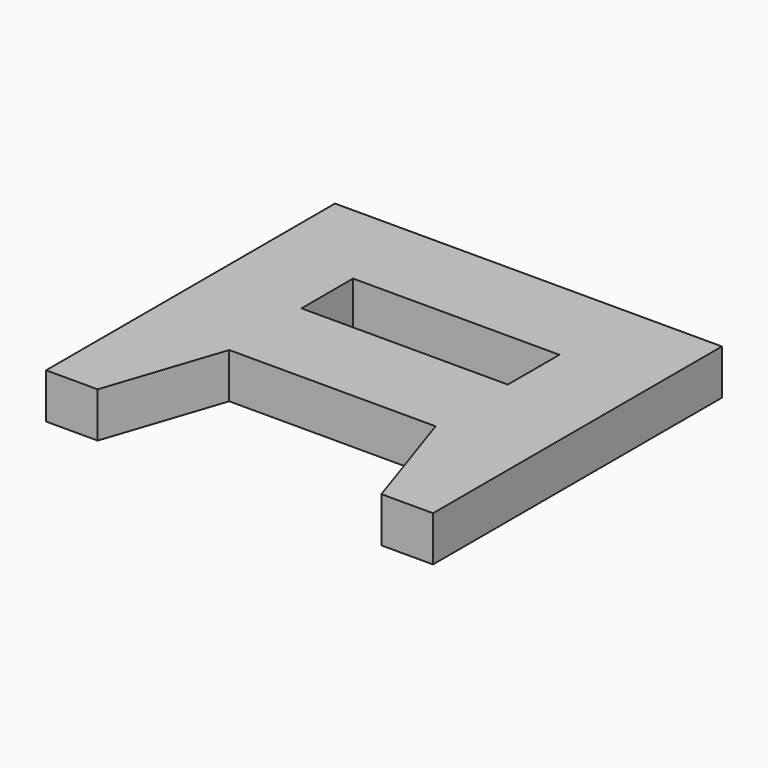
from build123d import *

# Parameters (mm, degrees)
F0_W     = 203.2
F0_H     = 88.9
F1_DEPTH = 44.45


with BuildPart() as f1:
    # F0 (on Top) → F1 (new body)
    with BuildSketch(Plane.XY):
        with Locations((0, 96.436721)):
            Rectangle(F0_W, F0_H)
        Polygon((-101.6, 51.986721), (-101.6, 140.886721), (-190.5, 140.886721), (-190.5, -214.713279), (-139.7, -214.713279), (-101.6, -100.413279), (-101.6, -11.513279), align=None)
        Polygon((190.5, 140.886721), (101.6, 140.886721), (101.6, 51.986721), (101.6, -11.513279), (101.6, -100.413279), (139.7, -214.713279), (190.5, -214.713279), align=None)
        with Locations((0, -55.963279)):
            Rectangle(F0_W, F0_H)
    extrude(amount=F1_DEPTH)


solid = f1.part
